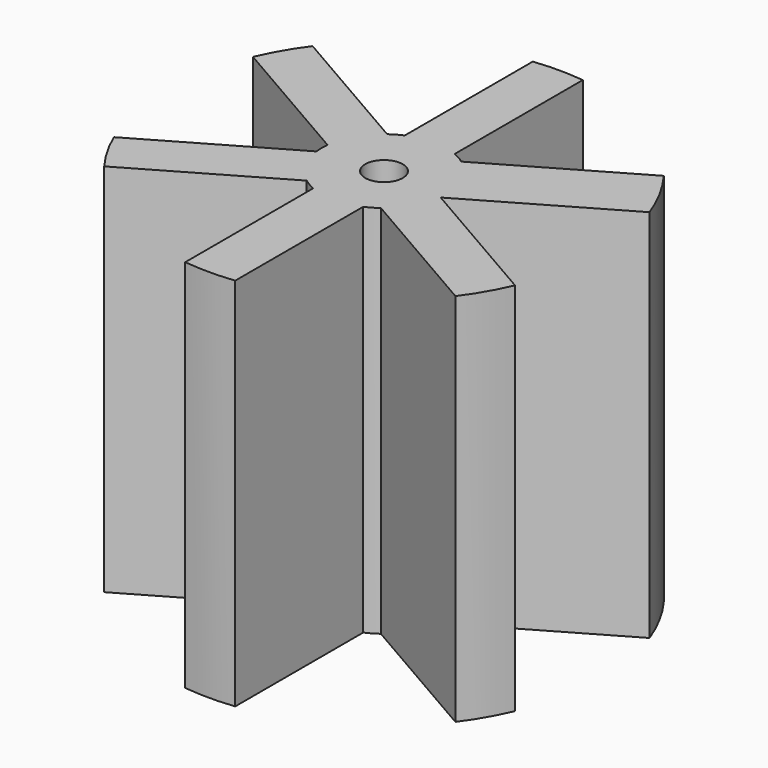
from build123d import *

# Parameters (mm, degrees)
F1_DEPTH = 3
F2_R     = 0.15
F3_DEPTH = 5


with BuildPart() as f1:
    # F0 (on Top) → F1 (new body)
    with BuildSketch(Plane.XY):
        with BuildLine():
            Line((0.2, 0.458258), (0.2, 1.738534))
            ThreePointArc((0.2, 1.738534), (0, 1.75), (-0.2, 1.738534))
            Line((-0.2, 1.738534), (-0.2, 0.458258))
            ThreePointArc((-0.2, 0.458258), (-0.25, 0.433013), (-0.296863, 0.402334))
            Line((-0.296863, 0.402334), (-1.405614, 1.042472))
            ThreePointArc((-1.405614, 1.042472), (-1.515544, 0.875), (-1.605614, 0.696062))
            Line((-1.605614, 0.696062), (-0.496863, 0.055924))
            ThreePointArc((-0.496863, 0.055924), (-0.5, 0), (-0.496863, -0.055924))
            Line((-0.496863, -0.055924), (-1.605614, -0.696062))
            ThreePointArc((-1.605614, -0.696062), (-1.515544, -0.875), (-1.405614, -1.042472))
            Line((-1.405614, -1.042472), (-0.296863, -0.402334))
            ThreePointArc((-0.296863, -0.402334), (-0.25, -0.433013), (-0.2, -0.458258))
            Line((-0.2, -0.458258), (-0.2, -1.738534))
            ThreePointArc((-0.2, -1.738534), (0, -1.75), (0.2, -1.738534))
            Line((0.2, -1.738534), (0.2, -0.458258))
            ThreePointArc((0.2, -0.458258), (0.25, -0.433013), (0.296863, -0.402334))
            Line((0.296863, -0.402334), (1.405614, -1.042472))
            ThreePointArc((1.405614, -1.042472), (1.515544, -0.875), (1.605614, -0.696062))
            Line((1.605614, -0.696062), (0.5, -0.057735))
            Line((0.5, -0.057735), (1.643109, 0.602239))
            ThreePointArc((1.643109, 0.602239), (1.540172, 0.830885), (1.405614, 1.042472))
            Line((1.405614, 1.042472), (0.296863, 0.402334))
            ThreePointArc((0.296863, 0.402334), (0.25, 0.433013), (0.2, 0.458258))
        make_face()
    extrude(amount=F1_DEPTH)

    # F2 (on Top) → F3 (cut)
    with BuildSketch(Plane.XY):
        Circle(F2_R)
    extrude(amount=F3_DEPTH, mode=Mode.SUBTRACT)


solid = f1.part
